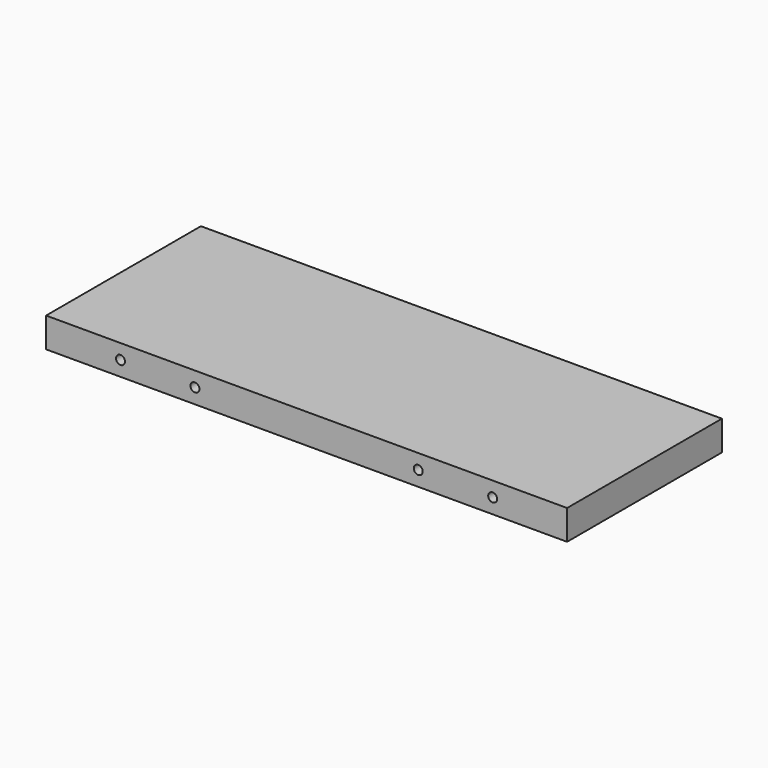
from build123d import *

# Parameters (mm, degrees)
F0_W     = 350
F0_H     = 130
F1_DEPTH = 10
F3_D     = 6
F5_D     = 3.5
F5_DEPTH = 5
F5_TIP   = 1.0515060833


with BuildPart() as f1:
    # F0 (on Top) → F1 (new body, symmetric)
    with BuildSketch(Plane.XY):
        Rectangle(F0_W, F0_H)
    extrude(amount=F1_DEPTH, both=True)

    # F3 (through all)
    with Locations(Plane.XZ.offset(65)):
        with Locations((-125, 0), (-75, 0), (75, 0), (125, 0)):
            Hole(F3_D / 2)

    # F5
    with Locations(Plane(origin=(0, 0, -10), x_dir=(1, 0, 0), z_dir=(0, 0, -1))):
        with Locations((-105, 5), (-105, -5), (-95, 0), (-5, 5), (-5, -5), (5, 0)):
            Hole(F5_D / 2, depth=F5_DEPTH)
            with Locations((0, 0, -(F5_DEPTH + F5_TIP / 2))):  # 118° drill point
                Cone(0, F5_D / 2, F5_TIP, mode=Mode.SUBTRACT)


solid = f1.part
